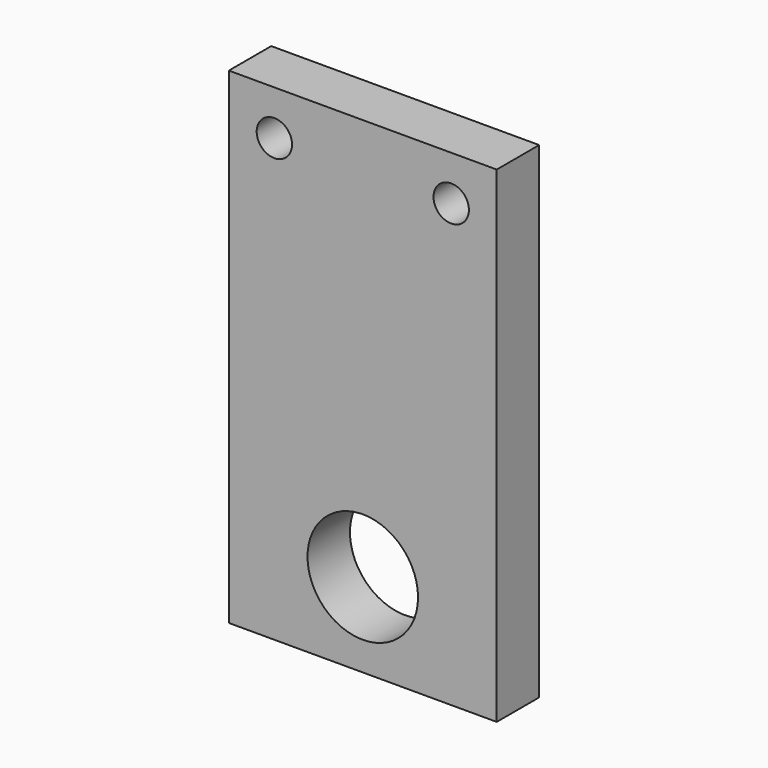
from build123d import *

# Parameters (mm, degrees)
F0_W     = 60.6
F0_H     = 110
F0_R     = 12.5
F0_R_2   = 4
F1_DEPTH = 12


with BuildPart() as f1:
    # F0 (on Front) → F1 (new body)
    with BuildSketch(Plane.XZ):
        with Locations((0.740131, 11.653375)):
            Rectangle(F0_W, F0_H)
        with Locations((0.740131, -24.346625)):
            Circle(F0_R, mode=Mode.SUBTRACT)
        with Locations((-19.259869, 56.553375)):
            Circle(F0_R_2, mode=Mode.SUBTRACT)
        with Locations((20.740131, 56.553375)):
            Circle(F0_R_2, mode=Mode.SUBTRACT)
    extrude(amount=F1_DEPTH)


solid = f1.part
